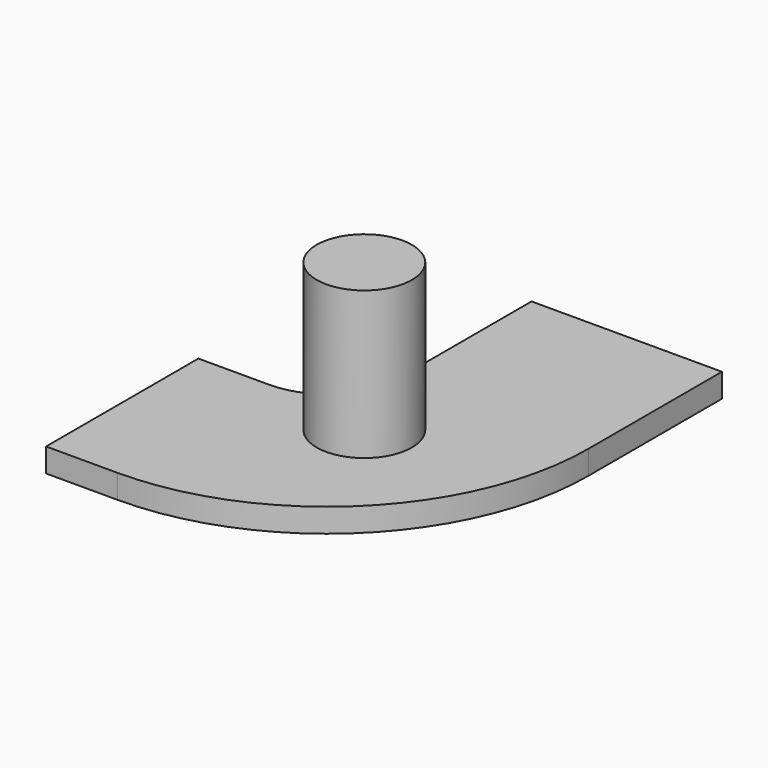
from build123d import *

# Parameters (mm, degrees)
F0_R     = 6.35
F1_DEPTH = 22.86
F2_DEPTH = 3.175
F3_ANGLE = 180


with BuildPart() as f1:
    # F0 (on Top) → F1 (new body)
    with BuildSketch(Plane.XY):
        with Locations((-4.509694, 23.622)):
            Circle(F0_R)
    extrude(amount=-F1_DEPTH)

    # F0 (on Top) → F2 (join)
    with BuildSketch(Plane.XY):
        with BuildLine():
            Line((0, 57.15), (-25.4, 57.15))
            Line((-25.4, 57.15), (-25.4, 34.925))
            ThreePointArc((-25.4, 34.925), (-15.170704, 10.229296), (9.525, 0))
            Line((9.525, 0), (19.05, 0))
            Line((19.05, 0), (19.05, 25.4))
            Line((19.05, 25.4), (9.525, 25.4))
            ThreePointArc((9.525, 25.4), (2.789808, 28.189808), (0, 34.925))
            Line((0, 34.925), (0, 57.15))
        make_face()
        with Locations((-4.509694, 23.622)):
            Circle(F0_R, mode=Mode.SUBTRACT)
    extrude(amount=-F2_DEPTH)


with BuildPart() as f1_1:
    # F3: moved
    add(f1.part.rotate(Axis((0, 46.0375, -3.175), (0, 1, 0)), F3_ANGLE))


solid = f1_1.part
